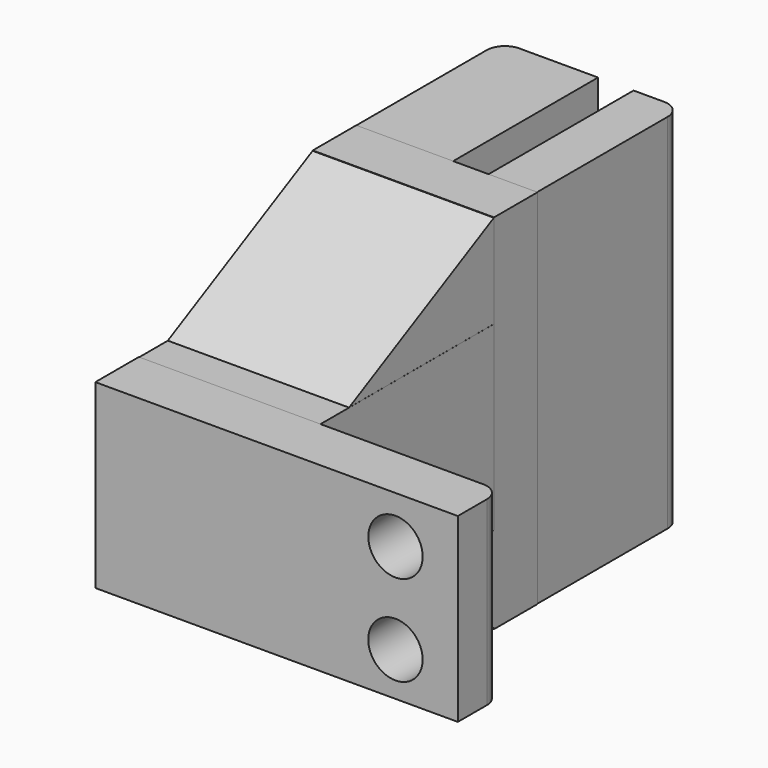
from build123d import *

# Parameters (mm, degrees)
SKETCH014_W  = 20
SKETCH014_H  = 10
SKETCH014_R  = 1.5
PAD006_DEPTH = 3
SKETCH015_W  = 10
SKETCH015_H  = 10
PAD007_DEPTH = 12
SKETCH028_W  = 10
SKETCH028_H  = 20
PAD014_DEPTH = 3
PAD015_DEPTH = 10
SKETCH029_W  = 5.341147
SKETCH029_H  = 20
PAD016_DEPTH = 10
PAD017_DEPTH = 10
FILLET001_R  = 1
FILLET002_R  = 1
FILLET003_R  = 1


with BuildPart() as part:
    # Sketch014 → Pad006 (new body)
    with BuildSketch(Plane(origin=(0, 16.63325, 0), x_dir=(-1, 0, 0), z_dir=(0, 1, 0))):
        with Locations((0.000853, 44.999577)):
            Rectangle(SKETCH014_W, SKETCH014_H)
        with Locations((-6.55861, 47.39436)):
            Circle(SKETCH014_R, mode=Mode.SUBTRACT)
        with Locations((-6.556974, 42.39436)):
            Circle(SKETCH014_R, mode=Mode.SUBTRACT)
    extrude(amount=PAD006_DEPTH)

    # Sketch015 (on Face8 of Pad006) → Pad007 (join)
    with BuildSketch(Plane(origin=(-10, 19.63325, 0), x_dir=(-1, 0, 0), z_dir=(0, 1, 0))):
        with Locations((-5, 44.980343)):
            Rectangle(SKETCH015_W, SKETCH015_H)
    extrude(amount=PAD007_DEPTH)

    # Sketch028 → Pad014 (join)
    with BuildSketch(Plane(origin=(0, 31.63, 0), x_dir=(-1, 0, 0), z_dir=(0, 1, 0))):
        with Locations((5.002885, 45.155186)):
            Rectangle(SKETCH028_W, SKETCH028_H)
    extrude(amount=PAD014_DEPTH)

    # Sketch027 → Pad015 (join)
    with BuildSketch(Plane(origin=(-2, 34.63, 45), x_dir=(1, 0, 0), z_dir=(0, 1, 0))):
        with BuildLine():
            Line((1.975717, 9.843815), (-0.708844, 9.843815))
            Line((-1.566561, 9.843815), (-0.708844, 9.843815))
            ThreePointArc((-1.566561, 9.843815), (-1.674924, 9.798929), (-1.71981, 9.690566))
            Line((-1.71981, 8.956594), (-1.71981, 9.690566))
            ThreePointArc((-1.71981, 8.956594), (-1.675937, 8.850677), (-1.57002, 8.806804))
            Line((-0.809443, 8.806804), (-1.57002, 8.806804))
            ThreePointArc((-0.704389, 8.701751), (-0.735158, 8.776035), (-0.809443, 8.806804))
            Line((-0.704389, 8.026948), (-0.704389, 8.701751))
            ThreePointArc((-0.916234, 7.815103), (-0.766437, 7.877151), (-0.704389, 8.026948))
            Line((-1.56111, 7.815103), (-0.916234, 7.815103))
            ThreePointArc((-1.56111, 7.815103), (-1.661811, 7.773391), (-1.703522, 7.672691))
            Line((-1.703522, 6.956427), (-1.703522, 7.672691))
            ThreePointArc((-1.703522, 6.956427), (-1.662049, 6.856302), (-1.561925, 6.81483))
            Line((-0.810564, 6.81483), (-1.561925, 6.81483))
            ThreePointArc((-0.703462, 6.707728), (-0.734831, 6.78346), (-0.810564, 6.81483))
            Line((-0.703462, 6.007832), (-0.703462, 6.707728))
            ThreePointArc((-0.892518, 5.818776), (-0.758835, 5.874149), (-0.703462, 6.007832))
            Line((-1.561271, 5.818776), (-0.892518, 5.818776))
            ThreePointArc((-1.561271, 5.818776), (-1.661881, 5.777102), (-1.703555, 5.676492))
            Line((-1.703555, 4.96034), (-1.703555, 5.676492))
            ThreePointArc((-1.703555, 4.96034), (-1.662091, 4.860238), (-1.56199, 4.818775))
            Line((-0.810665, 4.818775), (-1.56199, 4.818775))
            ThreePointArc((-0.703555, 4.711665), (-0.734926, 4.787403), (-0.810665, 4.818775))
            Line((-0.703555, 4.022301), (-0.703555, 4.711665))
            ThreePointArc((-0.903152, 3.822704), (-0.762015, 3.881164), (-0.703555, 4.022301))
            Line((-1.561369, 3.822704), (-0.903152, 3.822704))
            ThreePointArc((-1.561369, 3.822704), (-1.661978, 3.78103), (-1.703652, 3.680421))
            Line((-1.703652, 2.964269), (-1.703652, 3.680421))
            ThreePointArc((-1.703652, 2.964269), (-1.662188, 2.864167), (-1.562087, 2.822704))
            Line((-0.810762, 2.822704), (-1.562087, 2.822704))
            ThreePointArc((-0.703652, 2.715594), (-0.735023, 2.791332), (-0.810762, 2.822704))
            Line((-0.703652, 2.011374), (-0.703652, 2.715594))
            ThreePointArc((-0.888393, 1.826633), (-0.757761, 1.880742), (-0.703652, 2.011374))
            Line((-1.561466, 1.826633), (-0.888393, 1.826633))
            ThreePointArc((-1.561466, 1.826633), (-1.662075, 1.784959), (-1.703749, 1.68435))
            Line((-1.703749, 0.968198), (-1.703749, 1.68435))
            ThreePointArc((-1.703749, 0.968198), (-1.662285, 0.868096), (-1.562184, 0.826633))
            Line((-0.810859, 0.826633), (-1.562184, 0.826633))
            ThreePointArc((-0.703749, 0.719523), (-0.73512, 0.795261), (-0.810859, 0.826633))
            Line((-0.703749, 0.000302), (-0.703749, 0.719523))
            ThreePointArc((-0.873489, -0.169438), (-0.753464, -0.119723), (-0.703749, 0.000302))
            Line((-1.561563, -0.169438), (-0.873489, -0.169438))
            ThreePointArc((-1.561563, -0.169438), (-1.662172, -0.211112), (-1.703846, -0.311721))
            Line((-1.703846, -1.027873), (-1.703846, -0.311721))
            ThreePointArc((-1.703846, -1.027873), (-1.662382, -1.127975), (-1.562281, -1.169438))
            Line((-0.810956, -1.169438), (-1.562281, -1.169438))
            ThreePointArc((-0.703846, -1.276548), (-0.735217, -1.20081), (-0.810956, -1.169438))
            Line((-0.703846, -1.973203), (-0.703846, -1.276548))
            ThreePointArc((-0.896152, -2.165509), (-0.760171, -2.109184), (-0.703846, -1.973203))
            Line((-1.56166, -2.165509), (-0.896152, -2.165509))
            ThreePointArc((-1.56166, -2.165509), (-1.662269, -2.207183), (-1.703943, -2.307792))
            Line((-1.703943, -3.023944), (-1.703943, -2.307792))
            ThreePointArc((-1.703943, -3.023944), (-1.662479, -3.124046), (-1.562378, -3.165509))
            Line((-0.811053, -3.165509), (-1.562378, -3.165509))
            ThreePointArc((-0.703943, -3.272619), (-0.735314, -3.196881), (-0.811053, -3.165509))
            Line((-0.703943, -3.990733), (-0.703943, -3.272619))
            ThreePointArc((-0.87479, -4.16158), (-0.753983, -4.11154), (-0.703943, -3.990733))
            Line((-1.561757, -4.16158), (-0.87479, -4.16158))
            ThreePointArc((-1.561757, -4.16158), (-1.662366, -4.203254), (-1.70404, -4.303863))
            Line((-1.70404, -5.020015), (-1.70404, -4.303863))
            ThreePointArc((-1.70404, -5.020015), (-1.662576, -5.120117), (-1.562475, -5.16158))
            Line((-0.81115, -5.16158), (-1.562475, -5.16158))
            ThreePointArc((-0.70404, -5.26869), (-0.735411, -5.192952), (-0.81115, -5.16158))
            Line((-0.70404, -5.994353), (-0.70404, -5.26869))
            ThreePointArc((-0.867338, -6.157651), (-0.751869, -6.109822), (-0.70404, -5.994353))
            Line((-1.561854, -6.157651), (-0.867338, -6.157651))
            ThreePointArc((-1.561854, -6.157651), (-1.662463, -6.199325), (-1.704137, -6.299934))
            Line((-1.704137, -7.016086), (-1.704137, -6.299934))
            ThreePointArc((-1.704137, -7.016086), (-1.662673, -7.116188), (-1.562572, -7.157651))
            Line((-0.811247, -7.157651), (-1.562572, -7.157651))
            ThreePointArc((-0.704137, -7.264761), (-0.735508, -7.189023), (-0.811247, -7.157651))
            Line((-0.704137, -8.006283), (-0.704137, -7.264761))
            ThreePointArc((-0.851576, -8.153722), (-0.747321, -8.110538), (-0.704137, -8.006283))
            Line((-1.561951, -8.153722), (-0.851576, -8.153722))
            ThreePointArc((-1.561951, -8.153722), (-1.671215, -8.198981), (-1.716474, -8.308246))
            Line((-1.716474, -8.999917), (-1.716474, -8.308246))
            ThreePointArc((-1.716474, -8.999917), (-1.671425, -9.108674), (-1.562669, -9.153722))
            Line((-0.811344, -9.153722), (-1.562669, -9.153722))
            ThreePointArc((-0.704234, -9.260832), (-0.735605, -9.185094), (-0.811344, -9.153722))
            Line((-0.704234, -10.153722), (-0.704234, -9.260832))
            Line((-0.704234, -10.153722), (1.975717, -10.153722))
            Line((1.975717, -10.153722), (1.975717, 9.843815))
        make_face()
    extrude(amount=PAD015_DEPTH)

    # Sketch029 → Pad016 (join)
    with BuildSketch(Plane(origin=(0, 34.63, 0), x_dir=(-1, 0, 0), z_dir=(0, 1, 0))):
        with Locations((7.333255, 45.149561)):
            Rectangle(SKETCH029_W, SKETCH029_H)
    extrude(amount=PAD016_DEPTH)

    # Sketch035 (on Face15 of Pad016) → AdditiveLoft002 section 0
    with BuildSketch(Plane(origin=(-0.002885, 16.63325, 0), x_dir=(0, 0, -1), z_dir=(1, 0, 0))):
        Polygon((-55.139091, 14.987795), (-49.973751, 14.987795), (-49.973751, 4.987795), align=None)
    # Sketch036 (on Face15 of Pad016) → AdditiveLoft002 section 1
    with BuildSketch(Plane(origin=(-10.002885, 16.63325, 0), x_dir=(0, 0, -1), z_dir=(1, 0, 0))):
        Polygon((-55.139091, 14.987795), (-49.973751, 14.987795), (-49.973751, 4.987795), align=None)
    loft()

    # Sketch037 (on Face19 of AdditiveLoft002) → Pad017 (join)
    with BuildSketch(Plane(origin=(-0.002885, 16.63325, 0), x_dir=(0, 0, -1), z_dir=(1, 0, 0))):
        Polygon((-39.968193, 15.033547), (-35.187713, 15.033547), (-39.968193, 5.033547), align=None)
    extrude(amount=-PAD017_DEPTH)

    # Fillet001
    fillet001_edges = [part.edges().sort_by_distance(p)[0] for p in [
        (9.999147, 19.63325, 44.999577),
    ]]
    fillet(fillet001_edges, radius=FILLET001_R)

    # Fillet002
    fillet002_edges = [part.edges().sort_by_distance(p)[0] for p in [
        (-0.024283, 44.63, 45.154954),
    ]]
    fillet(fillet002_edges, radius=FILLET002_R)

    # Fillet003
    fillet003_edges = [part.edges().sort_by_distance(p)[0] for p in [
        (-10.003829, 44.63, 45.149561),
    ]]
    fillet(fillet003_edges, radius=FILLET003_R)


solid = part.part
